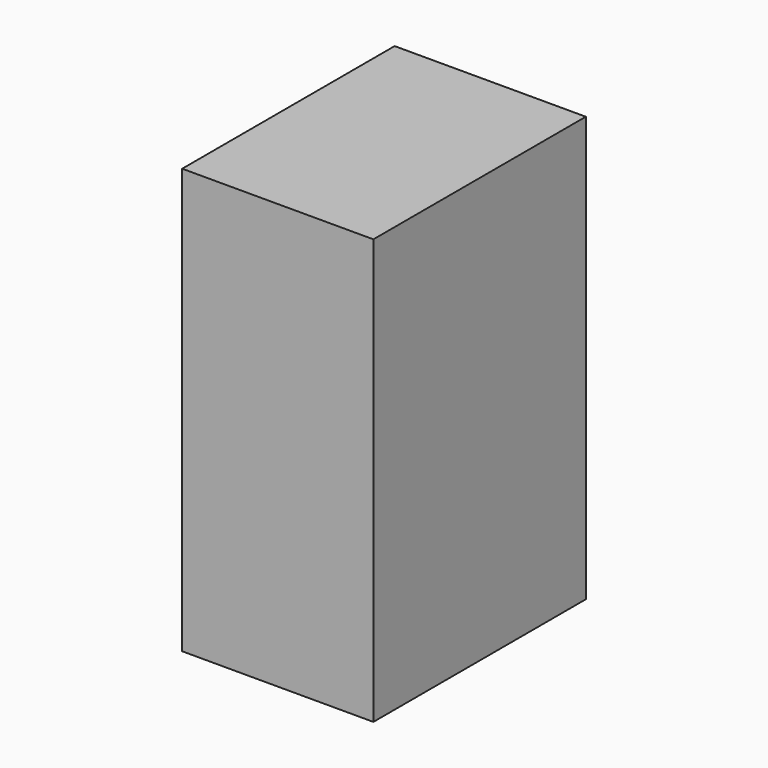
from build123d import *

# Parameters (mm, degrees)
F1_W     = 180
F1_H     = 250
F3_DEPTH = 400


with BuildPart() as f3:
    # F1 (on face) → F3 (new body)
    with BuildSketch(Plane.XY):
        with Locations((90, 125)):
            Rectangle(F1_W, F1_H)
    extrude(amount=F3_DEPTH)


solid = f3.part
